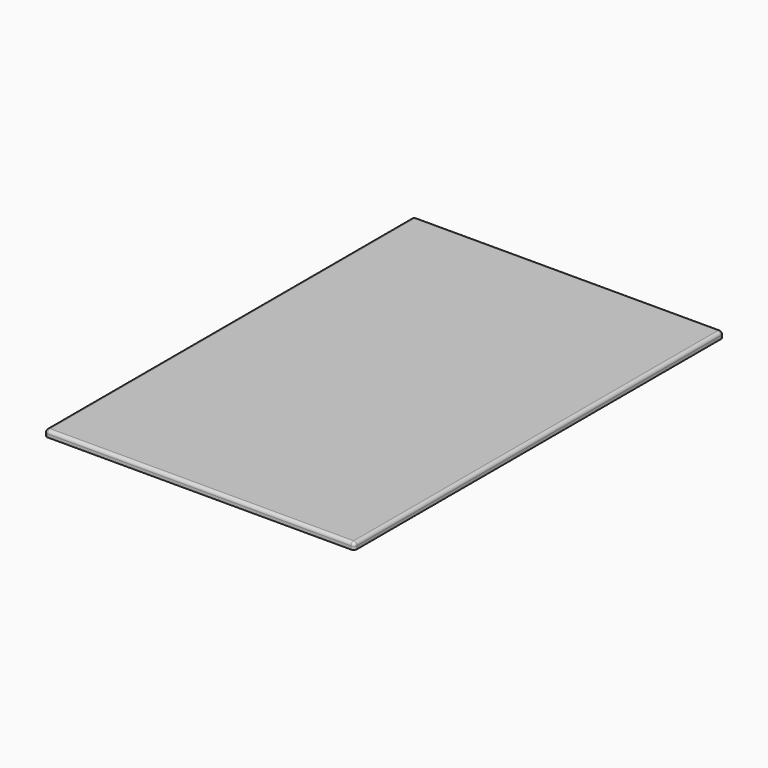
from build123d import *

# Parameters (mm, degrees)
F1_DEPTH = 12.7
F2_R     = 6.35


with BuildPart() as f1:
    # F0 (on Top) → F1 (new body)
    with BuildSketch(Plane.XY):
        with BuildLine():
            Line((-298.45, -454.025), (298.45, -454.025))
            ThreePointArc((298.45, -454.025), (302.9401280605, -452.1651280605), (304.8, -447.675))
            Line((304.8, -447.675), (304.8, 447.675))
            ThreePointArc((304.8, 447.675), (302.9401280605, 452.1651280605), (298.45, 454.025))
            Line((298.45, 454.025), (-298.45, 454.025))
            ThreePointArc((-298.45, 454.025), (-302.9401280605, 452.1651280605), (-304.8, 447.675))
            Line((-304.8, 447.675), (-304.8, -447.675))
            ThreePointArc((-304.8, -447.675), (-302.9401280605, -452.1651280605), (-298.45, -454.025))
        make_face()
    extrude(amount=F1_DEPTH)

    # F2
    f2_edges = [f1.edges().sort_by_distance(p)[0] for p in [
        (-304.8, 0, 12.7),
    ]]
    fillet(f2_edges, radius=F2_R)


solid = f1.part
